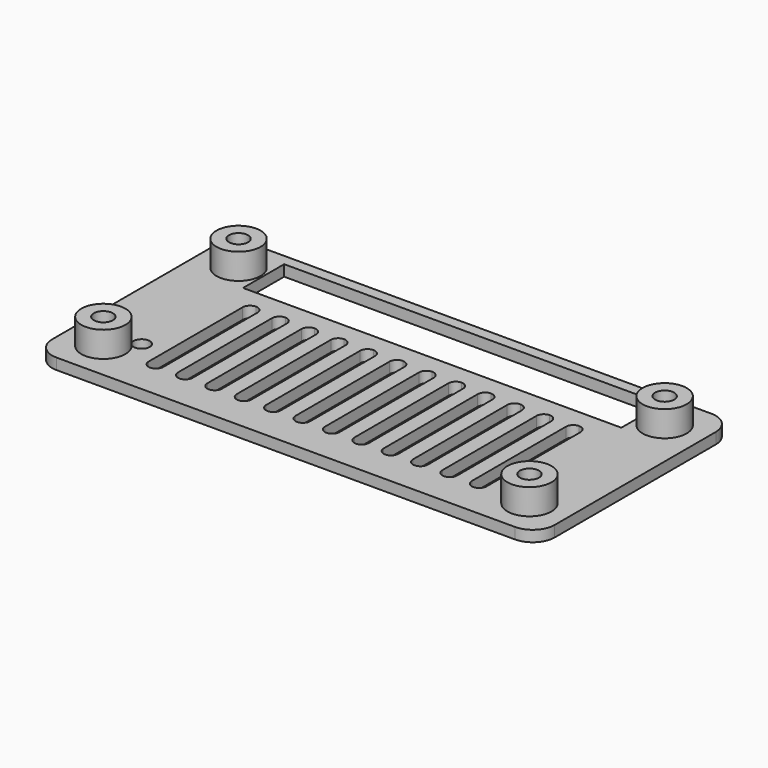
from build123d import *

# Parameters (mm, degrees)
F0_R     = 3
F0_R_2   = 1.3
F1_DEPTH = 1.5
F2_DEPTH = 3.5
F3_W     = 51.5
F3_H     = 7
F4_DEPTH = 25
F5_R     = 1.1
F6_DEPTH = 25


with BuildPart() as f1:
    # F0 (on Top) → F1 (new body)
    with BuildSketch(Plane.XY):
        with BuildLine():
            Line((31.2, 16.7), (-31.2, 16.7))
            ThreePointArc((-31.2, 16.7), (-33.32132, 15.82132), (-34.2, 13.7))
            Line((-34.2, 13.7), (-34.2, -13.7))
            ThreePointArc((-34.2, -13.7), (-33.32132, -15.82132), (-31.2, -16.7))
            Line((-31.2, -16.7), (31.2, -16.7))
            ThreePointArc((31.2, -16.7), (33.32132, -15.82132), (34.2, -13.7))
            Line((34.2, -13.7), (34.2, 13.7))
            ThreePointArc((34.2, 13.7), (33.32132, 15.82132), (31.2, 16.7))
        make_face()
        with BuildLine():
            ThreePointArc((-32.7, 12.2), (-31.82132, 14.32132), (-29.7, 15.2))
            Line((-29.7, 15.2), (29.7, 15.2))
            ThreePointArc((29.7, 15.2), (31.82132, 14.32132), (32.7, 12.2))
            Line((32.7, 12.2), (32.7, -12.2))
            ThreePointArc((32.7, -12.2), (31.82132, -14.32132), (29.7, -15.2))
            Line((29.7, -15.2), (-29.7, -15.2))
            ThreePointArc((-29.7, -15.2), (-31.82132, -14.32132), (-32.7, -12.2))
            Line((-32.7, -12.2), (-32.7, 12.2))
        make_face(mode=Mode.SUBTRACT)
        with BuildLine():
            Line((29.7, 15.2), (-29.7, 15.2))
            ThreePointArc((-29.7, 15.2), (-31.82132, 14.32132), (-32.7, 12.2))
            Line((-32.7, 12.2), (-32.7, -12.2))
            ThreePointArc((-32.7, -12.2), (-31.82132, -14.32132), (-29.7, -15.2))
            Line((-29.7, -15.2), (29.7, -15.2))
            ThreePointArc((29.7, -15.2), (31.82132, -14.32132), (32.7, -12.2))
            Line((32.7, -12.2), (32.7, 12.2))
            ThreePointArc((32.7, 12.2), (31.82132, 14.32132), (29.7, 15.2))
        make_face()
        with Locations((-29, -11.5)):
            Circle(F0_R, mode=Mode.SUBTRACT)
        with Locations((29, -11.5)):
            Circle(F0_R, mode=Mode.SUBTRACT)
        with Locations((-29, 11.5)):
            Circle(F0_R, mode=Mode.SUBTRACT)
        with Locations((29, 11.5)):
            Circle(F0_R, mode=Mode.SUBTRACT)
        with Locations((-29, 11.5)):
            Circle(F0_R)
        with Locations((-29, 11.5)):
            Circle(F0_R_2, mode=Mode.SUBTRACT)
        with Locations((-29, -11.5)):
            Circle(F0_R)
        with Locations((-29, -11.5)):
            Circle(F0_R_2, mode=Mode.SUBTRACT)
        with Locations((29, -11.5)):
            Circle(F0_R)
        with Locations((29, -11.5)):
            Circle(F0_R_2, mode=Mode.SUBTRACT)
        with Locations((29, 11.5)):
            Circle(F0_R)
        with Locations((29, 11.5)):
            Circle(F0_R_2, mode=Mode.SUBTRACT)
    extrude(amount=-F1_DEPTH)

    # F0 (on Top) → F2 (join)
    with BuildSketch(Plane.XY):
        with Locations((-29, 11.5)):
            Circle(F0_R)
        with Locations((-29, 11.5)):
            Circle(F0_R_2, mode=Mode.SUBTRACT)
        with Locations((-29, -11.5)):
            Circle(F0_R)
        with Locations((-29, -11.5)):
            Circle(F0_R_2, mode=Mode.SUBTRACT)
        with Locations((29, -11.5)):
            Circle(F0_R)
        with Locations((29, -11.5)):
            Circle(F0_R_2, mode=Mode.SUBTRACT)
        with Locations((29, 11.5)):
            Circle(F0_R)
        with Locations((29, 11.5)):
            Circle(F0_R_2, mode=Mode.SUBTRACT)
    extrude(amount=F2_DEPTH)

    # F3 (on face) → F4 (cut)
    with BuildSketch(Plane(origin=(0, 0, -1.5), x_dir=(1, 0, 0), z_dir=(0, 0, -1))):
        with Locations((0, -11.7)):
            Rectangle(F3_W, F3_H)
        with BuildLine():
            ThreePointArc((-22, 12.3), (-22.707107, 12.007107), (-23, 11.3))
            Line((-23, 11.3), (-23, -4.7))
            ThreePointArc((-23, -4.7), (-22.707107, -5.407107), (-22, -5.7))
            ThreePointArc((-22, -5.7), (-21.292893, -5.407107), (-21, -4.7))
            Line((-21, -4.7), (-21, 11.3))
            ThreePointArc((-21, 11.3), (-21.292893, 12.007107), (-22, 12.3))
        make_face()
        with BuildLine():
            ThreePointArc((-18, 12.3), (-18.707107, 12.007107), (-19, 11.3))
            Line((-19, 11.3), (-19, -4.7))
            ThreePointArc((-19, -4.7), (-18.707107, -5.407107), (-18, -5.7))
            ThreePointArc((-18, -5.7), (-17.292893, -5.407107), (-17, -4.7))
            Line((-17, -4.7), (-17, 11.3))
            ThreePointArc((-17, 11.3), (-17.292893, 12.007107), (-18, 12.3))
        make_face()
        with BuildLine():
            ThreePointArc((-14, 12.3), (-14.707107, 12.007107), (-15, 11.3))
            Line((-15, 11.3), (-15, -4.7))
            ThreePointArc((-15, -4.7), (-14.707107, -5.407107), (-14, -5.7))
            ThreePointArc((-14, -5.7), (-13.292893, -5.407107), (-13, -4.7))
            Line((-13, -4.7), (-13, 11.3))
            ThreePointArc((-13, 11.3), (-13.292893, 12.007107), (-14, 12.3))
        make_face()
        with BuildLine():
            ThreePointArc((-10, 12.3), (-10.707107, 12.007107), (-11, 11.3))
            Line((-11, 11.3), (-11, -4.7))
            ThreePointArc((-11, -4.7), (-10.707107, -5.407107), (-10, -5.7))
            ThreePointArc((-10, -5.7), (-9.292893, -5.407107), (-9, -4.7))
            Line((-9, -4.7), (-9, 11.3))
            ThreePointArc((-9, 11.3), (-9.292893, 12.007107), (-10, 12.3))
        make_face()
        with BuildLine():
            ThreePointArc((-6, 12.3), (-6.707107, 12.007107), (-7, 11.3))
            Line((-7, 11.3), (-7, -4.7))
            ThreePointArc((-7, -4.7), (-6.707107, -5.407107), (-6, -5.7))
            ThreePointArc((-6, -5.7), (-5.292893, -5.407107), (-5, -4.7))
            Line((-5, -4.7), (-5, 11.3))
            ThreePointArc((-5, 11.3), (-5.292893, 12.007107), (-6, 12.3))
        make_face()
        with BuildLine():
            ThreePointArc((-2, 12.3), (-2.707107, 12.007107), (-3, 11.3))
            Line((-3, 11.3), (-3, -4.7))
            ThreePointArc((-3, -4.7), (-2.707107, -5.407107), (-2, -5.7))
            ThreePointArc((-2, -5.7), (-1.292893, -5.407107), (-1, -4.7))
            Line((-1, -4.7), (-1, 11.3))
            ThreePointArc((-1, 11.3), (-1.292893, 12.007107), (-2, 12.3))
        make_face()
        with BuildLine():
            ThreePointArc((2, 12.3), (1.292893, 12.007107), (1, 11.3))
            Line((1, 11.3), (1, -4.7))
            ThreePointArc((1, -4.7), (1.292893, -5.407107), (2, -5.7))
            ThreePointArc((2, -5.7), (2.707107, -5.407107), (3, -4.7))
            Line((3, -4.7), (3, 11.3))
            ThreePointArc((3, 11.3), (2.707107, 12.007107), (2, 12.3))
        make_face()
        with BuildLine():
            ThreePointArc((6, 12.3), (5.292893, 12.007107), (5, 11.3))
            Line((5, 11.3), (5, -4.7))
            ThreePointArc((5, -4.7), (5.292893, -5.407107), (6, -5.7))
            ThreePointArc((6, -5.7), (6.707107, -5.407107), (7, -4.7))
            Line((7, -4.7), (7, 11.3))
            ThreePointArc((7, 11.3), (6.707107, 12.007107), (6, 12.3))
        make_face()
        with BuildLine():
            ThreePointArc((10, 12.3), (9.292893, 12.007107), (9, 11.3))
            Line((9, 11.3), (9, -4.7))
            ThreePointArc((9, -4.7), (9.292893, -5.407107), (10, -5.7))
            ThreePointArc((10, -5.7), (10.707107, -5.407107), (11, -4.7))
            Line((11, -4.7), (11, 11.3))
            ThreePointArc((11, 11.3), (10.707107, 12.007107), (10, 12.3))
        make_face()
        with BuildLine():
            ThreePointArc((14, 12.3), (13.292893, 12.007107), (13, 11.3))
            Line((13, 11.3), (13, -4.7))
            ThreePointArc((13, -4.7), (13.292893, -5.407107), (14, -5.7))
            ThreePointArc((14, -5.7), (14.707107, -5.407107), (15, -4.7))
            Line((15, -4.7), (15, 11.3))
            ThreePointArc((15, 11.3), (14.707107, 12.007107), (14, 12.3))
        make_face()
        with BuildLine():
            ThreePointArc((18, 12.3), (17.292893, 12.007107), (17, 11.3))
            Line((17, 11.3), (17, -4.7))
            ThreePointArc((17, -4.7), (17.292893, -5.407107), (18, -5.7))
            ThreePointArc((18, -5.7), (18.707107, -5.407107), (19, -4.7))
            Line((19, -4.7), (19, 11.3))
            ThreePointArc((19, 11.3), (18.707107, 12.007107), (18, 12.3))
        make_face()
        with BuildLine():
            ThreePointArc((22, 12.3), (21.292893, 12.007107), (21, 11.3))
            Line((21, 11.3), (21, -4.7))
            ThreePointArc((21, -4.7), (21.292893, -5.407107), (22, -5.7))
            ThreePointArc((22, -5.7), (22.707107, -5.407107), (23, -4.7))
            Line((23, -4.7), (23, 11.3))
            ThreePointArc((23, 11.3), (22.707107, 12.007107), (22, 12.3))
        make_face()
    extrude(amount=-F4_DEPTH, mode=Mode.SUBTRACT)

    # F5 (on face) → F6 (cut)
    with BuildSketch(Plane(origin=(0, 0, -1.5), x_dir=(1, 0, 0), z_dir=(0, 0, -1))):
        with Locations((-26.100862, 8.600862)):
            Circle(F5_R)
    extrude(amount=-F6_DEPTH, mode=Mode.SUBTRACT)


solid = f1.part
